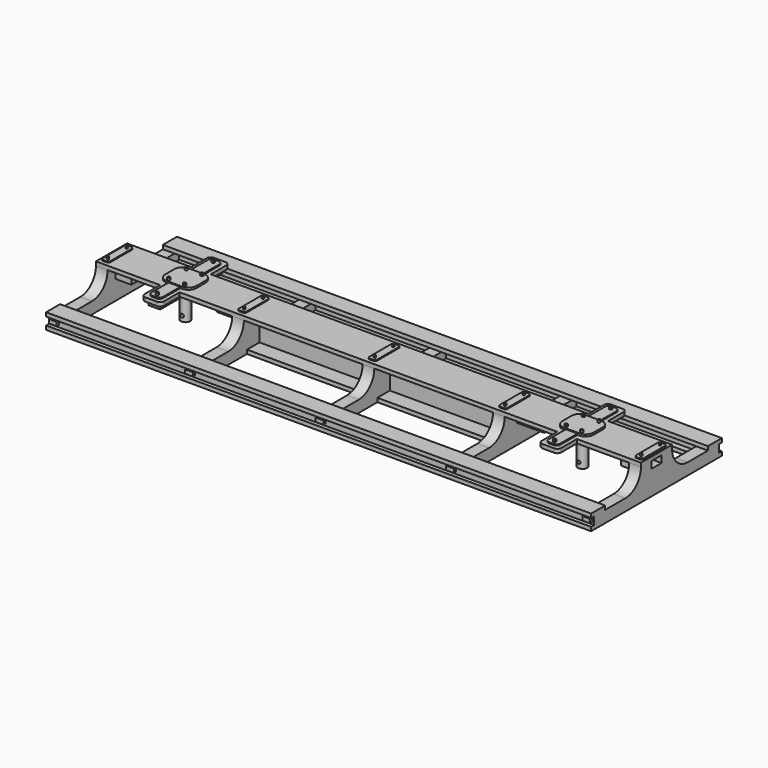
from build123d import *

# Parameters (mm, degrees)
F1_DEPTH  = 70
F2_W      = 32
F2_H      = 8
F3_DEPTH  = 40.001
F4_W      = 30.5
F4_H      = 8
F4_H_2    = 8.029077
F5_DEPTH  = 40.001
F6_W      = 2
F6_H      = 3
F7_DEPTH  = 140
F8_W      = 4.5
F8_H      = 1
F9_DEPTH  = 140
F10_W     = 4.5
F10_H     = 1
F11_DEPTH = 140
F12_R     = 1.2
F13_DEPTH = 8
F14_W     = 3
F14_H     = 20
F14_R     = 1.7
F15_DEPTH = 1.2
F17_DEPTH = 0.5
F18_W     = 5
F18_H     = 4
F19_DEPTH = 7.1
F20_W     = 3.2
F20_H     = 1.75
F21_DEPTH = 10
F22_W     = 5
F22_H     = 4
F23_DEPTH = 7.1
F24_W     = 3.2
F24_H     = 1.75
F25_DEPTH = 10
F26_W     = 70
F26_H     = 8
F27_DEPTH = 1
F28_W     = 2
F28_H     = 1
F29_DEPTH = 0.7
F30_W     = 2
F30_H     = 1
F31_DEPTH = 0.7
F32_W     = 2
F32_H     = 8
F33_DEPTH = 0.25
F34_R     = 0.35
F35_DEPTH = 0.5
F36_R     = 0.35
F37_DEPTH = 0.5
F38_R     = 0.5
F39_R     = 0.25
F40_DEPTH = 0.5
F41_W     = 70
F41_H     = 1
F42_DEPTH = 9
F43_R     = 0.426394
F43_R_2   = 0.418225
F44_DEPTH = 2.5
F45_W     = 10
F45_H     = 2
F46_DEPTH = 3
F48_DEPTH = 2
F49_W     = 5
F49_H     = 22
F50_DEPTH = 1
F51_W     = 5
F51_H     = 22
F52_DEPTH = 1
F53_R     = 1
F54_W     = 3
F54_H     = 20
F55_DEPTH = 0.3
F56_R     = 1
F57_R     = 0.35
F58_DEPTH = 0.5


with BuildPart() as f1:
    # F0 (on Right) → F1 (new body, symmetric)
    with BuildSketch(Plane.YZ):
        with BuildLine():
            Line((-10, 2.376178), (-20, 2.376178))
            Line((-20, 2.376178), (-20, -0.623822))
            Line((-20, -0.623822), (20, -0.623822))
            Line((20, -0.623822), (20, 2.376178))
            Line((20, 2.376178), (10, 2.376178))
            ThreePointArc((10, 2.376178), (6.464466, 3.840644), (5, 7.376178))
            Line((5, 7.376178), (5, 8.376178))
            Line((5, 8.376178), (-5, 8.376178))
            Line((-5, 8.376178), (-5, 7.376178))
            ThreePointArc((-5, 7.376178), (-6.464466, 3.840644), (-10, 2.376178))
        make_face()
    extrude(amount=F1_DEPTH, both=True)

    # F2 (on face) → F3 (cut, through all)
    with BuildSketch(Plane.XZ.offset(20)):
        with Locations((-51, 3.376178)):
            Rectangle(F2_W, F2_H)
        with Locations((51, 3.376178)):
            Rectangle(F2_W, F2_H)
    extrude(amount=-F3_DEPTH, mode=Mode.SUBTRACT)

    # F4 (on face) → F5 (cut, through all)
    with BuildSketch(Plane.XZ.offset(20)):
        with Locations((-16.75, 3.376178)):
            Rectangle(F4_W, F4_H)
        with Locations((16.75, 3.390716)):
            Rectangle(F4_W, F4_H_2)
    extrude(amount=-F5_DEPTH, mode=Mode.SUBTRACT)

    # F6 (on face) → F7 (join)
    with BuildSketch(Plane.YZ.offset(70)):
        with Locations((-19, 0.876178)):
            Rectangle(F6_W, F6_H)
        with Locations((19, 0.876178)):
            Rectangle(F6_W, F6_H)
    extrude(amount=-F7_DEPTH)

    # F8 (on face) → F9 (join)
    with BuildSketch(Plane.YZ.offset(70)):
        with Locations((-18.75, 2.876178)):
            Rectangle(F8_W, F8_H)
        with Locations((18.75, 2.876178)):
            Rectangle(F8_W, F8_H)
    extrude(amount=-F9_DEPTH)

    # F10 (on face) → F11 (join)
    with BuildSketch(Plane.YZ.offset(70)):
        with Locations((-18.75, -0.123822)):
            Rectangle(F10_W, F10_H)
        with Locations((18.75, -0.123822)):
            Rectangle(F10_W, F10_H)
    extrude(amount=-F11_DEPTH)

    # F12 (on face) → F13 (join)
    with BuildSketch(Plane(origin=(0, 0, 7.376178), x_dir=(1, 0, 0), z_dir=(0, 0, -1))):
        with Locations((51, 0)):
            Circle(F12_R)
        with Locations((-51, 0)):
            Circle(F12_R)
    extrude(amount=F13_DEPTH)

    # F14 (on face) → F15 (join)
    with BuildSketch(Plane(origin=(0, 0, 7.376178), x_dir=(1, 0, 0), z_dir=(0, 0, -1))):
        with Locations((-51, 0)):
            Rectangle(F14_W, F14_H)
        with Locations((51.026948, 0)):
            Circle(F14_R)
    extrude(amount=F15_DEPTH)

    # F16 (on face) → F17 (join)
    with BuildSketch(Plane.XY.offset(8.376178)):
        with BuildLine():
            Line((-49, 3.5), (-53, 3.5))
            ThreePointArc((-53, 3.5), (-54.414214, 2.914214), (-55, 1.5))
            Line((-55, 1.5), (-55, -1.5))
            ThreePointArc((-55, -1.5), (-54.414214, -2.914214), (-53, -3.5))
            Line((-53, -3.5), (-49, -3.5))
            ThreePointArc((-49, -3.5), (-47.585786, -2.914214), (-47, -1.5))
            Line((-47, -1.5), (-47, 1.5))
            ThreePointArc((-47, 1.5), (-47.585786, 2.914214), (-49, 3.5))
        make_face()
        with BuildLine():
            Line((53, 3.5), (49, 3.5))
            ThreePointArc((49, 3.5), (47.585786, 2.914214), (47, 1.5))
            Line((47, 1.5), (47, -1.5))
            ThreePointArc((47, -1.5), (47.585786, -2.914214), (49, -3.5))
            Line((49, -3.5), (53, -3.5))
            ThreePointArc((53, -3.5), (54.414214, -2.914214), (55, -1.5))
            Line((55, -1.5), (55, 1.5))
            ThreePointArc((55, 1.5), (54.414214, 2.914214), (53, 3.5))
        make_face()
    extrude(amount=F17_DEPTH)

    # F18 (on face) → F19 (join)
    with BuildSketch(Plane.YZ.offset(70)):
        with Locations((0, 6.376178)):
            Rectangle(F18_W, F18_H)
    extrude(amount=-F19_DEPTH)

    # F20 (on face) → F21 (cut)
    with BuildSketch(Plane.YZ.offset(70)):
        with Locations((0, 6.501178)):
            Rectangle(F20_W, F20_H)
    extrude(amount=-F21_DEPTH, mode=Mode.SUBTRACT)

    # F22 (on face) → F23 (join)
    with BuildSketch(Plane(origin=(-70, 0, 0), x_dir=(0, -1, 0), z_dir=(-1, 0, 0))):
        with Locations((0, 6.376178)):
            Rectangle(F22_W, F22_H)
    extrude(amount=-F23_DEPTH)

    # F24 (on face) → F25 (cut)
    with BuildSketch(Plane(origin=(-70, 0, 0), x_dir=(0, -1, 0), z_dir=(-1, 0, 0))):
        with Locations((0, 6.501178)):
            Rectangle(F24_W, F24_H)
    extrude(amount=-F25_DEPTH, mode=Mode.SUBTRACT)

    # F26 (on face) → F27 (join)
    with BuildSketch(Plane(origin=(0, 0, -0.623822), x_dir=(1, 0, 0), z_dir=(0, 0, -1))):
        Rectangle(F26_W, F26_H)
    extrude(amount=-F27_DEPTH)

    # F28 (on face) → F29 (join)
    with BuildSketch(Plane(origin=(0, 20, 0), x_dir=(-1, 0, 0), z_dir=(0, 1, 0))):
        with Locations((-68.5, 1.376178)):
            Rectangle(F28_W, F28_H)
        with Locations((-33.5, 1.376178)):
            Rectangle(F28_W, F28_H)
        with Locations((0, 1.376178)):
            Rectangle(F28_W, F28_H)
        with Locations((33.5, 1.376178)):
            Rectangle(F28_W, F28_H)
        with Locations((68.5, 1.376178)):
            Rectangle(F28_W, F28_H)
    extrude(amount=F29_DEPTH)

    # F30 (on face) → F31 (join)
    with BuildSketch(Plane.XZ.offset(20)):
        with Locations((-68.5, 1.376178)):
            Rectangle(F30_W, F30_H)
        with Locations((-33.5, 1.376178)):
            Rectangle(F30_W, F30_H)
        with Locations((0, 1.376178)):
            Rectangle(F30_W, F30_H)
        with Locations((33.5, 1.376178)):
            Rectangle(F30_W, F30_H)
        with Locations((68.5, 1.376178)):
            Rectangle(F30_W, F30_H)
    extrude(amount=F31_DEPTH)

    # F32 (on face) → F33 (join)
    with BuildSketch(Plane.XY.offset(8.376178)):
        with Locations((68.5, 0)):
            Rectangle(F32_W, F32_H)
        with Locations((33.5, 0)):
            Rectangle(F32_W, F32_H)
        Rectangle(F32_W, F32_H)
        with Locations((-33.5, 0)):
            Rectangle(F32_W, F32_H)
        with Locations((-68.5, 0)):
            Rectangle(F32_W, F32_H)
    extrude(amount=F33_DEPTH)

    # F34 (on face) → F35 (join)
    with BuildSketch(Plane.XY.offset(8.876178)):
        with Locations((49, 2.8)):
            Circle(F34_R)
        with Locations((53, 2.8)):
            Circle(F34_R)
        with Locations((49, -2.8)):
            Circle(F34_R)
        with Locations((53, -2.8)):
            Circle(F34_R)
    extrude(amount=F35_DEPTH)

    # F36 (on face) → F37 (join)
    with BuildSketch(Plane.XY.offset(8.876178)):
        with Locations((-53, 2.8)):
            Circle(F36_R)
        with Locations((-49, 2.8)):
            Circle(F36_R)
        with Locations((-49, -2.8)):
            Circle(F36_R)
        with Locations((-53, -2.8)):
            Circle(F36_R)
    extrude(amount=F37_DEPTH)

    # F38
    f38_edges = [f1.edges().sort_by_distance(p)[0] for p in [
        (69.5, 4, 8.501178),
        (69.5, -4, 8.501178),
        (67.5, 4, 8.501178),
        (67.5, -4, 8.501178),
        (32.5, 4, 8.501178),
        (32.5, -4, 8.501178),
        (34.5, -4, 8.501178),
        (34.5, 4, 8.501178),
        (1, 4, 8.501178),
        (1, -4, 8.501178),
        (-1, -4, 8.501178),
        (-1, 4, 8.501178),
        (-34.5, 4, 8.501178),
        (-34.5, -4, 8.501178),
        (-32.5, 4, 8.501178),
        (-32.5, -4, 8.501178),
        (-67.5, 4, 8.501178),
        (-67.5, -4, 8.501178),
        (-69.5, 4, 8.501178),
        (-69.5, -4, 8.501178),
    ]]
    fillet(f38_edges, radius=F38_R)

    # F39 (on face) → F40 (join)
    with BuildSketch(Plane.XY.offset(8.626178)):
        with Locations((68.5, 3)):
            Circle(F39_R)
        with Locations((68.5, -3)):
            Circle(F39_R)
        with Locations((33.5, 3)):
            Circle(F39_R)
        with Locations((33.5, -3)):
            Circle(F39_R)
        with Locations((0, 3)):
            Circle(F39_R)
        with Locations((0, -3)):
            Circle(F39_R)
        with Locations((-33.5, 3)):
            Circle(F39_R)
        with Locations((-33.5, -3)):
            Circle(F39_R)
        with Locations((-68.5, 3)):
            Circle(F39_R)
        with Locations((-68.5, -3)):
            Circle(F39_R)
    extrude(amount=F40_DEPTH)

    # F41 (on face) → F42 (join)
    with BuildSketch(Plane(origin=(0, 0, -0.623822), x_dir=(1, 0, 0), z_dir=(0, 0, -1))):
        with Locations((0, -0.5)):
            Rectangle(F41_W, F41_H)
    extrude(amount=-F42_DEPTH)

    # F43 (on Front) → F44 (cut, symmetric)
    with BuildSketch(Plane.XZ):
        with Locations((-50.931409, 0.750218)):
            Circle(F43_R)
        with Locations((50.987903, 0.757953)):
            Circle(F43_R_2)
    extrude(amount=F44_DEPTH, both=True, mode=Mode.SUBTRACT)

    # F45 (on face) → F46 (join)
    with BuildSketch(Plane(origin=(0, 0, 7.376178), x_dir=(1, 0, 0), z_dir=(0, 0, -1))):
        with Locations((40, 0)):
            Rectangle(F45_W, F45_H)
        with Locations((-40, 0)):
            Rectangle(F45_W, F45_H)
    extrude(amount=F46_DEPTH)

    # F47 (on face) → F48 (cut)
    with BuildSketch(Plane.XZ.offset(1)):
        Polygon((45, 4.376178), (45, 7.376178), (42, 4.376178), align=None)
        Polygon((-45.038357, 7.36049), (-45.034607, 4.360492), (-42.034607, 4.360492), align=None)
    extrude(amount=-F48_DEPTH, mode=Mode.SUBTRACT)

    # F49 (on face) → F50 (join)
    with BuildSketch(Plane(origin=(0, 0, 7.376178), x_dir=(1, 0, 0), z_dir=(0, 0, -1))):
        with Locations((51.026948, 0)):
            Rectangle(F49_W, F49_H)
    extrude(amount=-F50_DEPTH)

    # F51 (on face) → F52 (join)
    with BuildSketch(Plane.XY.offset(8.376178)):
        with Locations((-51, 0)):
            Rectangle(F51_W, F51_H)
    extrude(amount=-F52_DEPTH)

    # F53
    f53_edges = [f1.edges().sort_by_distance(p)[0] for p in [
        (-53.5, -11, 7.876178),
        (-48.5, -11, 7.876178),
        (-53.5, 11, 7.876178),
        (-48.5, 11, 7.876178),
        (53.526948, 11, 7.876178),
        (48.526948, 11, 7.876178),
        (48.526948, -11, 7.876178),
        (53.526948, -11, 7.876178),
    ]]
    fillet(f53_edges, radius=F53_R)

    # F54 (on face) → F55 (join)
    with BuildSketch(Plane.XY.offset(8.376178)):
        with Locations((51.026948, 0)):
            Rectangle(F54_W, F54_H)
        with Locations((-51, 0)):
            Rectangle(F54_W, F54_H)
    extrude(amount=F55_DEPTH)

    # F56
    f56_edges = [f1.edges().sort_by_distance(p)[0] for p in [
        (52.526948, -10, 8.526178),
        (49.526948, -10, 8.526178),
        (52.526948, 10, 8.526178),
        (49.526948, 10, 8.526178),
        (-52.5, 10, 8.526178),
        (-49.5, 10, 8.526178),
        (-52.5, -10, 8.526178),
        (-49.5, -10, 8.526178),
    ]]
    fillet(f56_edges, radius=F56_R)

    # F57 (on face) → F58 (join)
    with BuildSketch(Plane.XY.offset(8.676178)):
        with Locations((51.026948, -9)):
            Circle(F57_R)
        with Locations((51.026948, 9)):
            Circle(F57_R)
        with Locations((-51, 9)):
            Circle(F57_R)
        with Locations((-51, -9)):
            Circle(F57_R)
    extrude(amount=F58_DEPTH)


solid = f1.part
